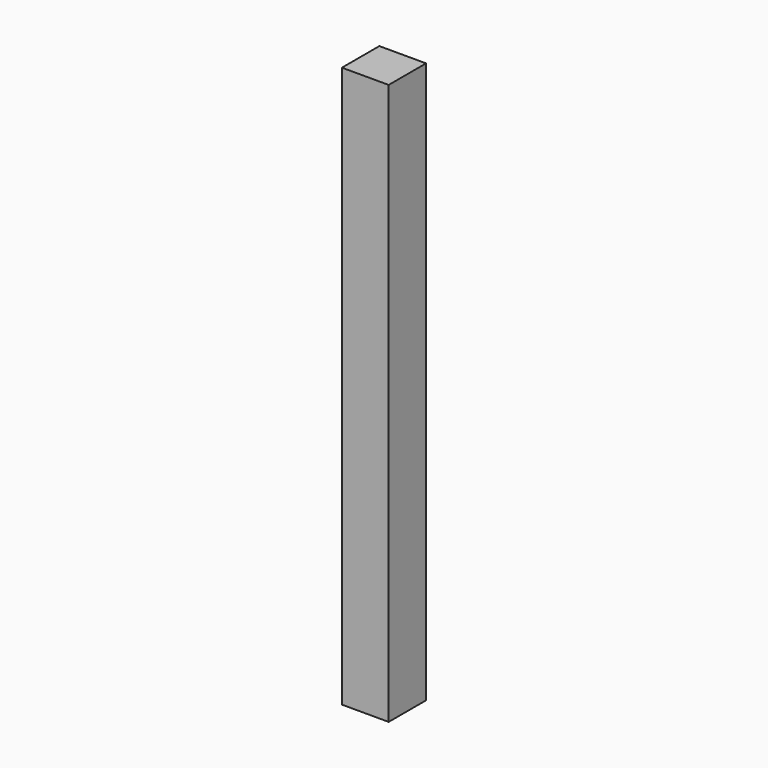
from build123d import *

# Parameters (mm, degrees)
F0_W     = 6.994385
F0_H     = 7.487355
F1_DEPTH = 38.1
F2_W     = 38.1
F2_H     = 38.1
F3_DEPTH = 457.2


with BuildPart() as f1:
    # F0 (on Top) → F1 (new body)
    with BuildSketch(Plane.XY):
        with Locations((46.358182, 8.891652)):
            Rectangle(F0_W, F0_H)
    extrude(amount=F1_DEPTH)


with BuildPart() as f3:
    # F2 (on Top) → F3 (new body)
    with BuildSketch(Plane.XY):
        with Locations((-46.304774, -45.300414)):
            Rectangle(F2_W, F2_H)
    extrude(amount=F3_DEPTH)


solid = f3.part
